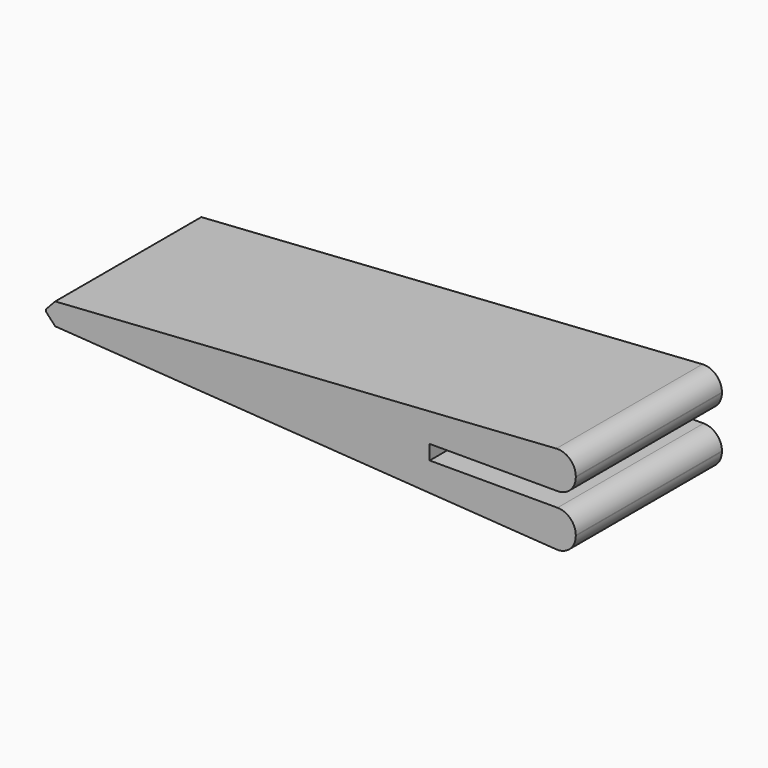
from build123d import *

# Parameters (mm, degrees)
F1_DEPTH = 10
F2_R     = 1
F3_SIZE  = 0.5


with BuildPart() as f1:
    # F0 (on Front) → F1 (new body)
    with BuildSketch(Plane.XZ):
        Polygon((15, 0.4), (15, 2.5), (-14, 0.566667), (-14, 0), (-14, -0.566667), (15, -2.5), (15, -0.4), (7, -0.4), (7, 0.4), align=None)
    extrude(amount=F1_DEPTH)

    # F2
    f2_edges = [f1.edges().sort_by_distance(p)[0] for p in [
        (15, -5, -0.4),
        (15, -5, 0.4),
        (15, -5, -2.5),
        (15, -5, 2.5),
    ]]
    fillet(f2_edges, radius=F2_R)

    # F3
    f3_edges = [f1.edges().sort_by_distance(p)[0] for p in [
        (-14, -5, 0.566667),
        (-14, -5, -0.566667),
    ]]
    chamfer(f3_edges, length=F3_SIZE)


solid = f1.part
